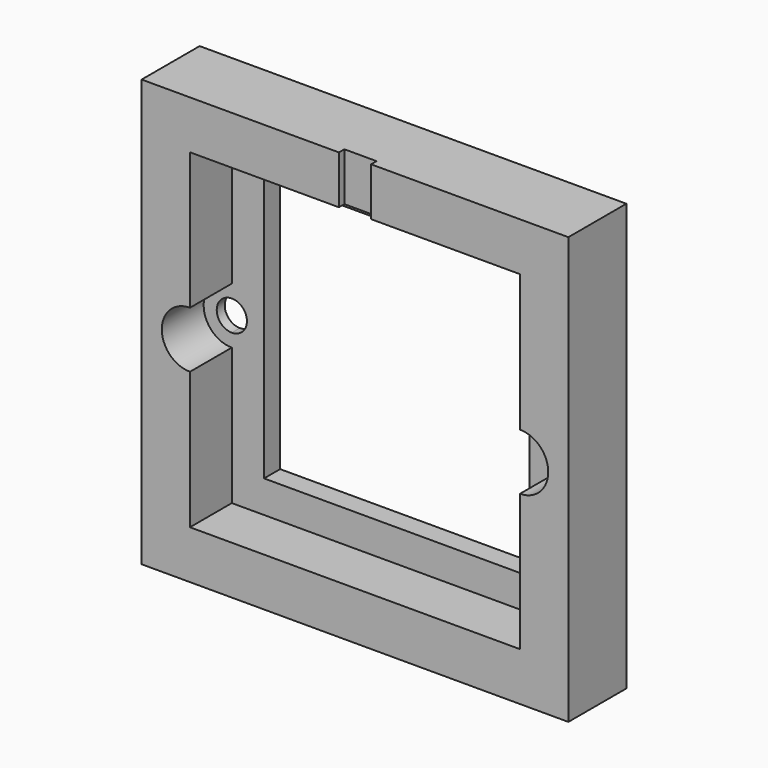
from build123d import *

# Parameters (mm, degrees)
F0_W     = 33
F0_H     = 33
F1_DEPTH = 2.5
F0_W_2   = 53
F0_H_2   = 53
F0_W_3   = 49.5
F0_H_3   = 49.5
F2_DEPTH = 9
F3_W     = 4
F3_H     = 0.85
F4_DEPTH = 6.75
F5_DEPTH = 2.5
F6_DEPTH = 1.25


with BuildPart() as f1:
    # F0 (on Front) → F1 (new body)
    with BuildSketch(Plane.XZ):
        with BuildLine():
            Line((-20.5, -20.5), (20.5, -20.5))
            Line((20.5, -20.5), (20.5, -3.5))
            ThreePointArc((20.5, -3.5), (17, 0), (20.5, 3.5))
            Line((20.5, 3.5), (20.5, 20.5))
            Line((20.5, 20.5), (-20.5, 20.5))
            Line((-20.5, 20.5), (-20.5, 3.5))
            ThreePointArc((-20.5, 3.5), (-18.0251262658, 2.4748737342), (-17, 0))
            ThreePointArc((-17, 0), (-18.0251262658, -2.4748737342), (-20.5, -3.5))
            Line((-20.5, -3.5), (-20.5, -20.5))
        make_face()
        Rectangle(F0_W, F0_H, mode=Mode.SUBTRACT)
    extrude(amount=F1_DEPTH)

    # F0 (on Front) → F2 (join)
    with BuildSketch(Plane.XZ):
        Rectangle(F0_W_2, F0_H_2)
        Rectangle(F0_W_3, F0_H_3, mode=Mode.SUBTRACT)
        Rectangle(F0_W_3, F0_H_3)
        with BuildLine():
            Line((20.5, -3.5), (20.5, -20.5))
            Line((20.5, -20.5), (-20.5, -20.5))
            Line((-20.5, -20.5), (-20.5, -3.5))
            ThreePointArc((-20.5, -3.5), (-24, 0), (-20.5, 3.5))
            Line((-20.5, 3.5), (-20.5, 20.5))
            Line((-20.5, 20.5), (20.5, 20.5))
            Line((20.5, 20.5), (20.5, 3.5))
            ThreePointArc((20.5, 3.5), (22.9748737342, 2.4748737342), (24, 0))
            ThreePointArc((24, 0), (22.9748737342, -2.4748737342), (20.5, -3.5))
        make_face(mode=Mode.SUBTRACT)
    extrude(amount=F2_DEPTH)

    # F3 (on face) → F4 (cut)
    with BuildSketch(Plane.XY.offset(26.5)):
        with Locations((0, -8.575)):
            Rectangle(F3_W, F3_H)
    extrude(amount=-F4_DEPTH, mode=Mode.SUBTRACT)

    # F0 (on Front) → F5 (join)
    with BuildSketch(Plane.XZ):
        with BuildLine():
            ThreePointArc((20.5, 3.5), (17, 0), (20.5, -3.5))
            Line((20.5, -3.5), (20.5, -1.875))
            ThreePointArc((20.5, -1.875), (18.625, 0), (20.5, 1.875))
            Line((20.5, 1.875), (20.5, 3.5))
        make_face()
        with BuildLine():
            Line((20.5, -1.875), (20.5, -3.5))
            ThreePointArc((20.5, -3.5), (22.9748737342, -2.4748737342), (24, 0))
            ThreePointArc((24, 0), (22.9748737342, 2.4748737342), (20.5, 3.5))
            Line((20.5, 3.5), (20.5, 1.875))
            ThreePointArc((20.5, 1.875), (21.8258252147, 1.3258252147), (22.375, 0))
            ThreePointArc((22.375, 0), (21.8258252147, -1.3258252147), (20.5, -1.875))
        make_face()
        with BuildLine():
            Line((-20.5, -1.875), (-20.5, -3.5))
            ThreePointArc((-20.5, -3.5), (-18.0251262658, -2.4748737342), (-17, 0))
            ThreePointArc((-17, 0), (-18.0251262658, 2.4748737342), (-20.5, 3.5))
            Line((-20.5, 3.5), (-20.5, 1.875))
            ThreePointArc((-20.5, 1.875), (-19.1741747853, 1.3258252147), (-18.625, 0))
            ThreePointArc((-18.625, 0), (-19.1741747853, -1.3258252147), (-20.5, -1.875))
        make_face()
        with BuildLine():
            ThreePointArc((-20.5, 3.5), (-24, 0), (-20.5, -3.5))
            Line((-20.5, -3.5), (-20.5, -1.875))
            ThreePointArc((-20.5, -1.875), (-22.375, 0), (-20.5, 1.875))
            Line((-20.5, 1.875), (-20.5, 3.5))
        make_face()
    extrude(amount=F5_DEPTH)

    # F0 (on Front) → F6 (cut)
    with BuildSketch(Plane.XZ):
        with BuildLine():
            ThreePointArc((20.5, 3.5), (17, 0), (20.5, -3.5))
            Line((20.5, -3.5), (20.5, -1.875))
            ThreePointArc((20.5, -1.875), (18.625, 0), (20.5, 1.875))
            Line((20.5, 1.875), (20.5, 3.5))
        make_face()
        with BuildLine():
            Line((20.5, -1.875), (20.5, -3.5))
            ThreePointArc((20.5, -3.5), (22.9748737342, -2.4748737342), (24, 0))
            ThreePointArc((24, 0), (22.9748737342, 2.4748737342), (20.5, 3.5))
            Line((20.5, 3.5), (20.5, 1.875))
            ThreePointArc((20.5, 1.875), (21.8258252147, 1.3258252147), (22.375, 0))
            ThreePointArc((22.375, 0), (21.8258252147, -1.3258252147), (20.5, -1.875))
        make_face()
        with BuildLine():
            Line((-20.5, -1.875), (-20.5, -3.5))
            ThreePointArc((-20.5, -3.5), (-18.0251262658, -2.4748737342), (-17, 0))
            ThreePointArc((-17, 0), (-18.0251262658, 2.4748737342), (-20.5, 3.5))
            Line((-20.5, 3.5), (-20.5, 1.875))
            ThreePointArc((-20.5, 1.875), (-19.1741747853, 1.3258252147), (-18.625, 0))
            ThreePointArc((-18.625, 0), (-19.1741747853, -1.3258252147), (-20.5, -1.875))
        make_face()
        with BuildLine():
            ThreePointArc((-20.5, 3.5), (-24, 0), (-20.5, -3.5))
            Line((-20.5, -3.5), (-20.5, -1.875))
            ThreePointArc((-20.5, -1.875), (-22.375, 0), (-20.5, 1.875))
            Line((-20.5, 1.875), (-20.5, 3.5))
        make_face()
    extrude(amount=F6_DEPTH, mode=Mode.SUBTRACT)


solid = f1.part
